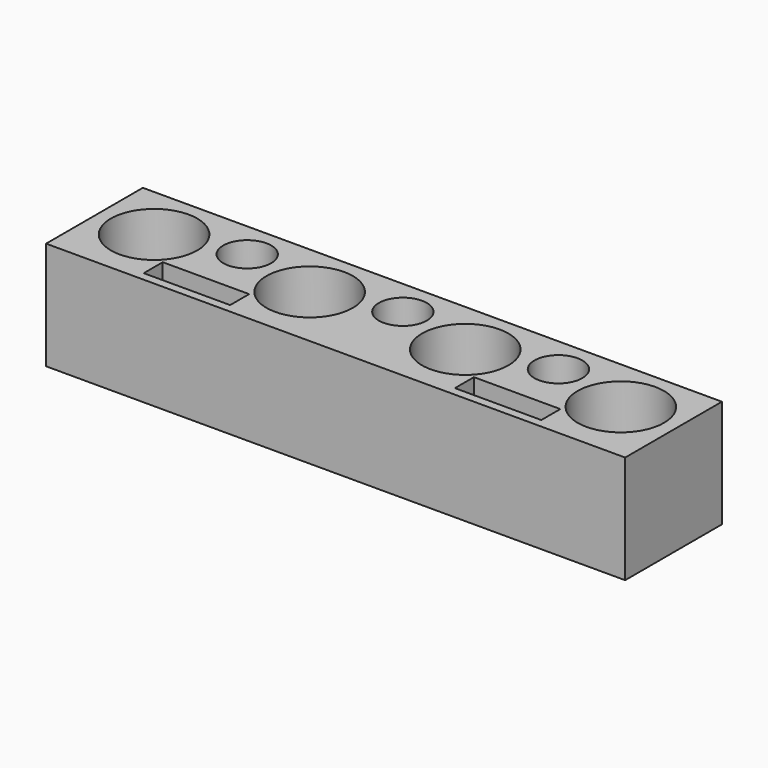
from build123d import *

# Parameters (mm, degrees)
F0_W     = 134.0499884313
F0_H     = 28
F0_W_2   = 20
F0_H_2   = 5
F0_R     = 10
F0_R_2   = 5.55
F1_DEPTH = 23
F3_START = 20.5
F3_DEPTH = 5.5
F4_W     = 134.0499884313
F4_H     = 2
F5_DEPTH = 28


with BuildPart() as f1:
    # F0 (on Top) → F1 (new body)
    with BuildSketch(Plane.XY):
        with Locations((67.0249942156, -14)):
            Rectangle(F0_W, F0_H)
        with Locations((31.0064340452, -23.5)):
            Rectangle(F0_W_2, F0_H_2, mode=Mode.SUBTRACT)
        with Locations((103.0416570261, -23.5)):
            Rectangle(F0_W_2, F0_H_2, mode=Mode.SUBTRACT)
        with Locations((13, -13)):
            Circle(F0_R, mode=Mode.SUBTRACT)
        with Locations((31.0083314052, -8.55)):
            Circle(F0_R_2, mode=Mode.SUBTRACT)
        with Locations((49.0166628104, -13)):
            Circle(F0_R, mode=Mode.SUBTRACT)
        with Locations((85.0333256209, -13)):
            Circle(F0_R, mode=Mode.SUBTRACT)
        with Locations((67.0249942156, -8.55)):
            Circle(F0_R_2, mode=Mode.SUBTRACT)
        with Locations((121.0499884313, -13)):
            Circle(F0_R, mode=Mode.SUBTRACT)
        with Locations((103.0416570261, -8.55)):
            Circle(F0_R_2, mode=Mode.SUBTRACT)
        with Locations((31.0064340452, -23.5)):
            Rectangle(F0_W_2, F0_H_2)
        with Locations((103.0416570261, -23.5)):
            Rectangle(F0_W_2, F0_H_2)
    extrude(amount=-F1_DEPTH)

    # F2 (on Front) → F3 (cut)
    with BuildSketch(Plane.XZ.offset(F3_START)):
        with BuildLine():
            Line((21.00643, -12), (41.00643, -12))
            ThreePointArc((41.00643, -12), (31.00643, -2), (21.00643, -12))
        make_face()
        with BuildLine():
            ThreePointArc((21.00643, -12), (31.00643, -22), (41.00643, -12))
            Line((41.00643, -12), (21.00643, -12))
        make_face()
        with BuildLine():
            ThreePointArc((21.00643, -12), (31.00643, -2), (41.00643, -12))
            Line((41.00643, -12), (41.00643, 6))
            Line((41.00643, 6), (21.00643, 6))
            Line((21.00643, 6), (21.00643, -12))
        make_face()
        with BuildLine():
            Line((93.04166, -12), (113.04166, -12))
            ThreePointArc((113.04166, -12), (103.04166, -2), (93.04166, -12))
        make_face()
        with BuildLine():
            ThreePointArc((93.04166, -12), (103.04166, -22), (113.04166, -12))
            Line((113.04166, -12), (93.04166, -12))
        make_face()
        with BuildLine():
            ThreePointArc((93.04166, -12), (103.04166, -2), (113.04166, -12))
            Line((113.04166, -12), (113.04166, 6))
            Line((113.04166, 6), (93.04166, 6))
            Line((93.04166, 6), (93.04166, -12))
        make_face()
    extrude(amount=F3_DEPTH, mode=Mode.SUBTRACT)

    # F4 (on Front) → F5 (join)
    with BuildSketch(Plane.XZ):
        with Locations((67.0249942156, -24)):
            Rectangle(F4_W, F4_H)
    extrude(amount=F5_DEPTH)


solid = f1.part
